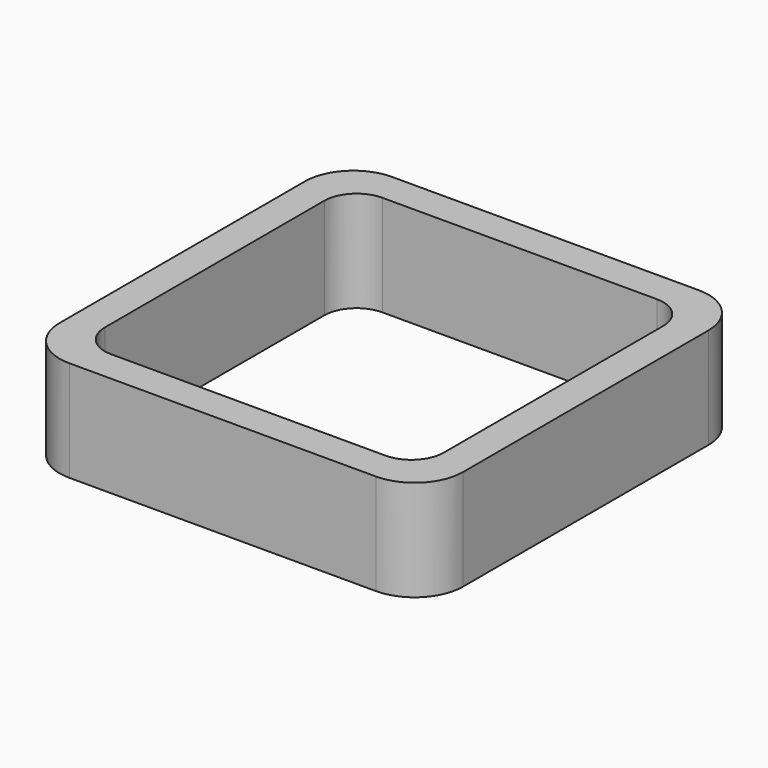
from build123d import *

# Parameters (mm, degrees)
EXTRUDE_DEPTH = 50


with BuildPart() as part:
    # Sketch → Extrude (new body)
    with BuildSketch(Plane.XY):
        with BuildLine():
            Line((-76, 100), (76, 100))
            ThreePointArc((100, 76), (92.970563, 92.970563), (76, 100))
            Line((100, 76), (100, -76))
            ThreePointArc((76, -100), (92.970563, -92.970563), (100, -76))
            Line((76, -100), (-76, -100))
            ThreePointArc((-100, -76), (-92.970563, -92.970563), (-76, -100))
            Line((-100, -76), (-100, 76))
            ThreePointArc((-76, 100), (-92.970563, 92.970563), (-100, 76))
        make_face()
        with BuildLine():
            Line((-68, 84), (68, 84))
            ThreePointArc((84, 68), (79.313708, 79.313708), (68, 84))
            Line((84, 68), (84, -68))
            ThreePointArc((68, -84), (79.313708, -79.313708), (84, -68))
            Line((68, -84), (-68, -84))
            ThreePointArc((-84, -68), (-79.313708, -79.313708), (-68, -84))
            Line((-84, -68), (-84, 68))
            ThreePointArc((-68, 84), (-79.313708, 79.313708), (-84, 68))
        make_face(mode=Mode.SUBTRACT)
    extrude(amount=EXTRUDE_DEPTH)


solid = part.part
